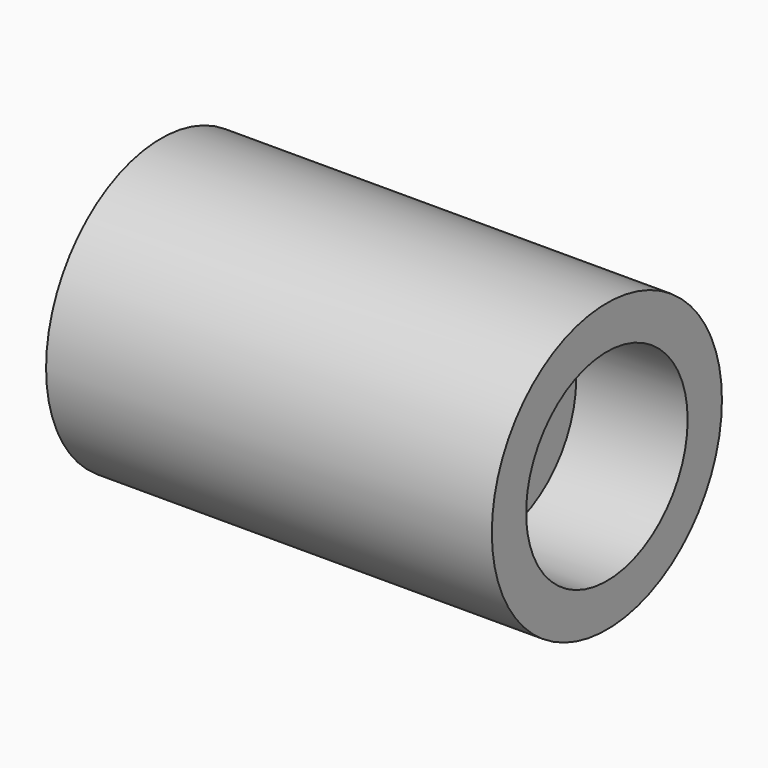
from build123d import *

# Parameters (mm, degrees)
F0_R     = 8.194552
F1_DEPTH = 25.4
F2_R     = 5.7531
F3_DEPTH = 6.35
F4_R     = 2.537622
F5_DEPTH = 19.051
F6_R     = 2.9591
F7_DEPTH = 6.35


with BuildPart() as f1:
    # F0 (on Right) → F1 (new body)
    with BuildSketch(Plane.YZ):
        Circle(F0_R)
    extrude(amount=F1_DEPTH)

    # F2 (on face) → F3 (cut)
    with BuildSketch(Plane.YZ.offset(25.4)):
        Circle(F2_R)
    extrude(amount=-F3_DEPTH, mode=Mode.SUBTRACT)

    # F4 (on face) → F5 (cut, through all)
    with BuildSketch(Plane.YZ.offset(19.05)):
        Circle(F4_R)
    extrude(amount=-F5_DEPTH, mode=Mode.SUBTRACT)

    # F6 (on face) → F7 (cut)
    with BuildSketch(Plane(origin=(0, 0, 0), x_dir=(0, -1, 0), z_dir=(-1, 0, 0))):
        Circle(F6_R)
    extrude(amount=-F7_DEPTH, mode=Mode.SUBTRACT)


solid = f1.part
